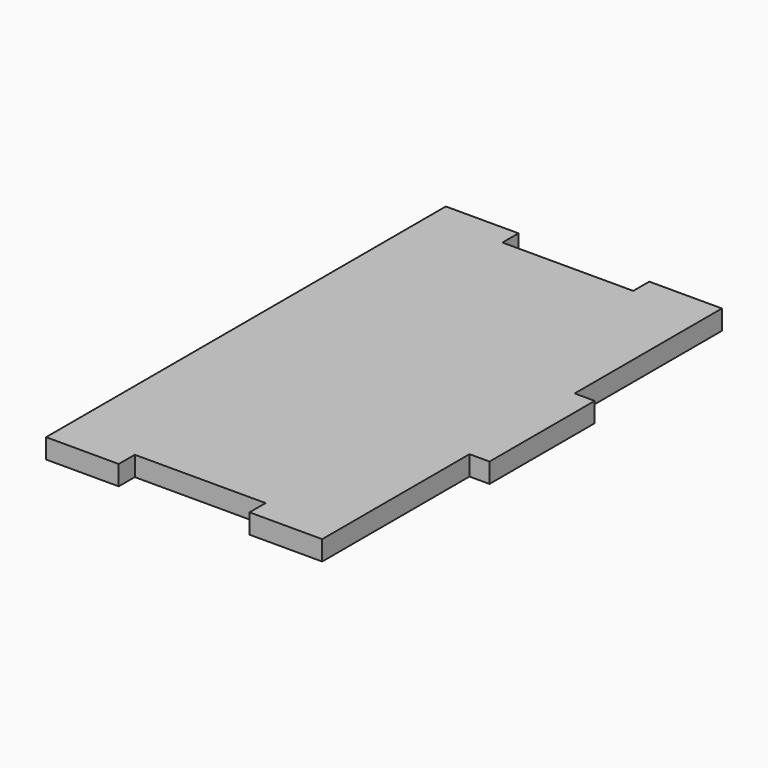
from build123d import *

# Parameters (mm, degrees)
F0_W     = 3.05
F0_H     = 20
F1_DEPTH = 3


with BuildPart() as f1:
    # F0 (on Top) → F1 (new body)
    with BuildSketch(Plane.XY):
        with Locations((22.525, 0)):
            Rectangle(F0_W, F0_H)
        Polygon((9.95, -38), (21, -38), (21, -10), (21, 10), (21, 38), (9.95, 38), (9.95, 34.95), (-9.95, 34.95), (-9.95, 38), (-21, 38), (-21, -38), (-9.95, -38), (-9.95, -34.95), (9.95, -34.95), align=None)
    extrude(amount=F1_DEPTH)


solid = f1.part
